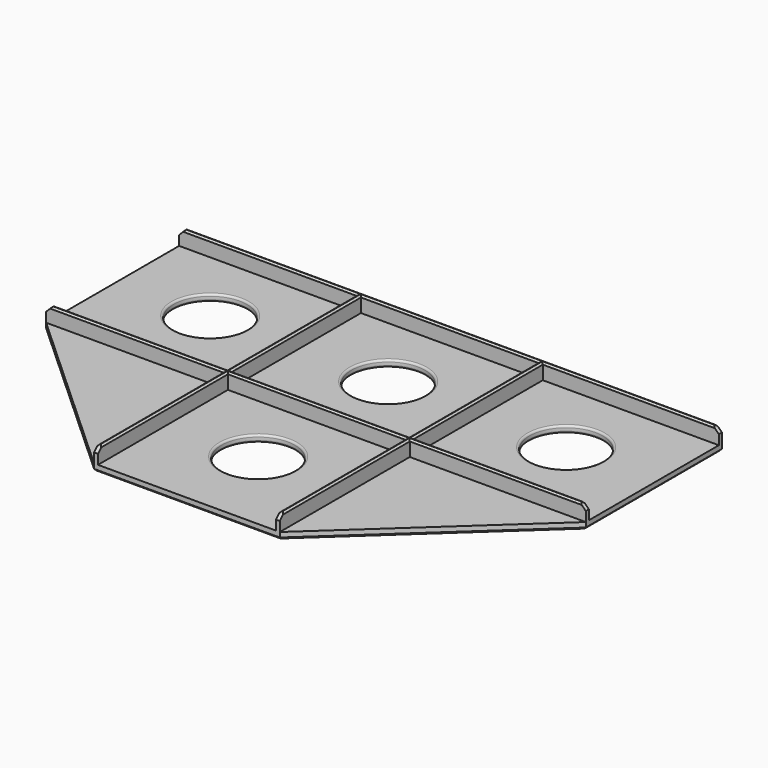
from build123d import *

# Parameters (mm, degrees)
SKETCH001_R     = 19.05
PAD_DEPTH       = 3.5
SKETCH_W        = 92.1334
SKETCH_H        = 84.09
PAD001_DEPTH    = 8
CHAMFER_SIZE    = 0.9
CHAMFER001_SIZE = 3
FILLET_R        = 1
CHAMFER002_SIZE = 1


with BuildPart() as part:
    # Sketch001 → Pad (new body)
    with BuildSketch(Plane.XY):
        Polygon((139.20002, 86.09), (139.20002, 84.09), (48.066665, 0), (46.066665, 0), (-46.06665, 0), (-48.06665, 0), (-140.19998, 84.09), (-140.19998, 86.09), (-140.19998, 170.18), (-140.19998, 172.18), (139.20002, 172.18), (139.20002, 170.18), align=None)
        with Locations((-92.134, 130.201)):
            Circle(SKETCH001_R, mode=Mode.SUBTRACT)
        with Locations((92.134, 130.201)):
            Circle(SKETCH001_R, mode=Mode.SUBTRACT)
        with Locations((0, 130.201)):
            Circle(SKETCH001_R, mode=Mode.SUBTRACT)
        with Locations((0, 46.067)):
            Circle(SKETCH001_R, mode=Mode.SUBTRACT)
    extrude(amount=PAD_DEPTH)

    # Sketch (on Face18 of Pad) → Pad001 (join)
    with BuildSketch(Plane.XY.offset(3.5)):
        Polygon((-140.19998, 86.09), (-48.066647, 86.09), (-48.066647, 170.18), (-140.19998, 170.18), (-140.19998, 172.18), (139.20002, 172.18), (139.20002, 170.18), (48.0667, 170.18), (48.0667, 86.09), (139.20002, 86.09), (139.20002, 84.09), (48.066665, 84.09), (48.066665, 0), (46.066665, 0), (46.066665, 84.09), (-46.06665, 84.09), (-46.06665, 0), (-48.06665, 0), (-48.06665, 84.09), (-140.19998, 84.09), align=None)
        with Locations((0, 128.135)):
            Rectangle(SKETCH_W, SKETCH_H, mode=Mode.SUBTRACT)
    extrude(amount=PAD001_DEPTH)

    # Chamfer
    chamfer_edges = [part.edges().sort_by_distance(p)[0] for p in [
        (48.066665, 42.045, 11.5),
        (46.066665, 42.045, 11.5),
        (93.633342, 84.09, 11.5),
        (93.63336, 86.09, 11.5),
        (48.0667, 128.135, 11.5),
        (46.0667, 128.135, 11.5),
        (0, 86.09, 11.5),
        (7e-06, 84.09, 11.5),
        (-46.06665, 42.045, 11.5),
        (-48.06665, 42.045, 11.5),
        (-94.133315, 84.09, 11.5),
        (-94.133314, 86.09, 11.5),
        (-48.066647, 128.135, 11.5),
        (-46.0667, 128.135, 11.5),
        (93.63336, 170.18, 11.5),
        (-0.49998, 172.18, 11.5),
        (0, 170.18, 11.5),
        (-94.133314, 170.18, 11.5),
    ]]
    chamfer(chamfer_edges, length=CHAMFER_SIZE)

    # Chamfer001
    chamfer001_edges = [part.edges().sort_by_distance(p)[0] for p in [
        (-140.19998, 171.18, 11.5),
        (-140.19998, 85.09, 11.5),
        (-47.06665, 0, 11.5),
        (47.066665, 0, 11.5),
        (139.20002, 85.09, 11.5),
        (139.20002, 171.18, 11.5),
    ]]
    chamfer(chamfer001_edges, length=CHAMFER001_SIZE)

    # Fillet
    fillet_edges = [part.edges().sort_by_distance(p)[0] for p in [
        (-111.184, 130.201, 0),
        (-111.184, 130.201, 3.5),
        (-19.05, 130.201, 0),
        (-19.05, 130.201, 3.5),
        (-19.05, 46.067, 0),
        (-19.05, 46.067, 3.5),
        (73.084, 130.201, 0),
        (73.084, 130.201, 3.5),
    ]]
    fillet(fillet_edges, radius=FILLET_R)

    # Chamfer002
    chamfer002_edges = [part.edges().sort_by_distance(p)[0] for p in [
        (8e-06, 0, 0),
        (-94.133315, 42.045, 0),
        (-47.06665, 0, 0),
        (47.066665, 0, 0),
        (93.633342, 42.045, 0),
        (-140.19998, 128.135, 0),
        (-140.19998, 171.18, 0),
        (-0.49998, 172.18, 0),
        (139.20002, 171.18, 0),
        (139.20002, 128.135, 0),
        (139.20002, 85.09, 0),
    ]]
    chamfer(chamfer002_edges, length=CHAMFER002_SIZE)


solid = part.part
